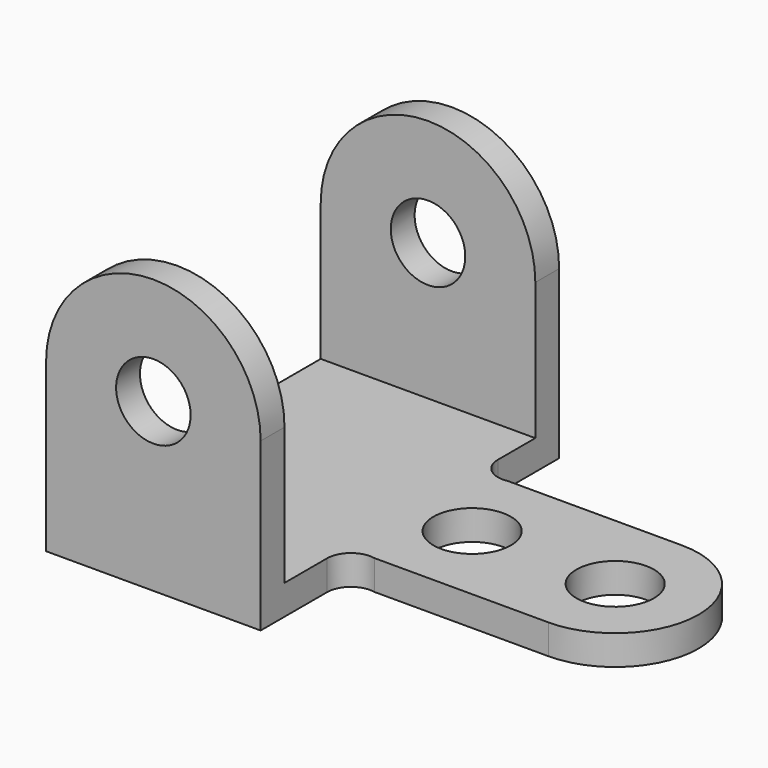
from build123d import *

# Parameters (mm, degrees)
F0_W     = 57.15
F0_H     = 18.1449148804
F0_R     = 10.3251
F0_H_2   = 16.3959403712
F1_DEPTH = 7.9375
F2_W     = 57.15
F2_H     = 7.9375
F2_R     = 9.92251
F3_DEPTH = 3.96875
F4_W     = 57.15
F4_H     = 7.9375
F4_R     = 9.92251
F5_DEPTH = 3.96875


with BuildPart() as f1:
    # F0 (on Top) → F1 (new body)
    with BuildSketch(Plane.XY):
        with Locations((28.575, 9.0724574402)):
            Rectangle(F0_W, F0_H)
        with BuildLine():
            Line((0, 75.0422115248), (0, 18.1449148804))
            Line((0, 18.1449148804), (57.15, 18.1449148804))
            ThreePointArc((57.15, 18.1449148804), (59.4801290617, 23.0605163329), (64.7604370519, 24.3685632026))
            Line((64.7604370519, 24.3685632026), (111.125, 24.3685632026))
            ThreePointArc((111.125, 24.3685632026), (133.35, 46.5935632026), (111.125, 68.8185632026))
            Line((111.125, 68.8185632026), (64.7604370519, 68.8185632026))
            ThreePointArc((64.7604370519, 68.8185632026), (59.4801290617, 70.1266100723), (57.15, 75.0422115248))
            Line((57.15, 75.0422115248), (0, 75.0422115248))
        make_face()
        with Locations((73.025, 46.5935632026)):
            Circle(F0_R, mode=Mode.SUBTRACT)
        with Locations((111.125, 46.5935632026)):
            Circle(F0_R, mode=Mode.SUBTRACT)
        with Locations((28.575, 83.2401817104)):
            Rectangle(F0_W, F0_H_2)
    extrude(amount=F1_DEPTH)

    # F2 (on face) → F3 (join, symmetric)
    with BuildSketch(Plane.XZ):
        with Locations((28.575, 3.96875)):
            Rectangle(F2_W, F2_H)
        with BuildLine():
            Line((0, 44.45), (0, 7.9375))
            Line((0, 7.9375), (57.15, 7.9375))
            Line((57.15, 7.9375), (57.15, 44.45))
            ThreePointArc((57.15, 44.45), (28.575, 73.025), (0, 44.45))
        make_face()
        with Locations((28.575, 44.45)):
            Circle(F2_R, mode=Mode.SUBTRACT)
    extrude(amount=F3_DEPTH, both=True)

    # F4 (on face) → F5 (join, symmetric)
    with BuildSketch(Plane(origin=(0, 91.438151896, 0), x_dir=(-1, 0, 0), z_dir=(0, 1, 0))):
        with Locations((-28.575, 3.96875)):
            Rectangle(F4_W, F4_H)
        with BuildLine():
            Line((-57.15, 44.45), (-57.15, 7.9375))
            Line((-57.15, 7.9375), (0, 7.9375))
            Line((0, 7.9375), (0, 44.45))
            ThreePointArc((0, 44.45), (-28.575, 73.025), (-57.15, 44.45))
        make_face()
        with Locations((-28.575, 44.45)):
            Circle(F4_R, mode=Mode.SUBTRACT)
    extrude(amount=F5_DEPTH, both=True)


solid = f1.part
